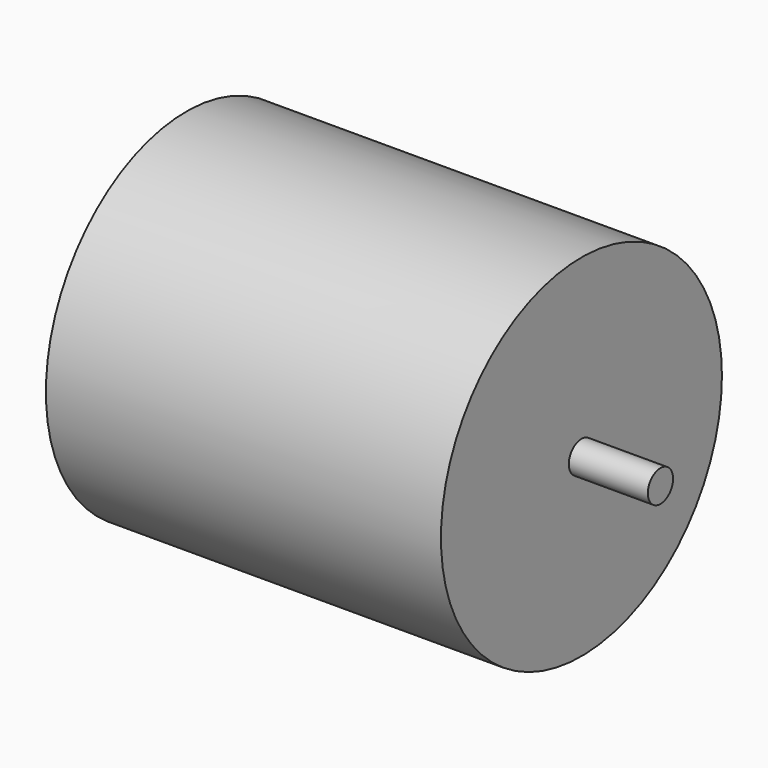
from build123d import *

# Parameters (mm, degrees)
F0_W     = 25
F0_H     = 11.1125
F2_R     = 1
F3_DEPTH = 5


with BuildPart() as f1:
    # F0 (on Top) → F1 (revolve)
    with BuildSketch(Plane.XY):
        with Locations((-12.5, 5.55625)):
            Rectangle(F0_W, F0_H)
    revolve(axis=Axis((-12.5, 0, 0), (-1, 0, 0)))

    # F2 (on face) → F3 (join)
    with BuildSketch(Plane.YZ):
        Circle(F2_R)
    extrude(amount=F3_DEPTH)


solid = f1.part
